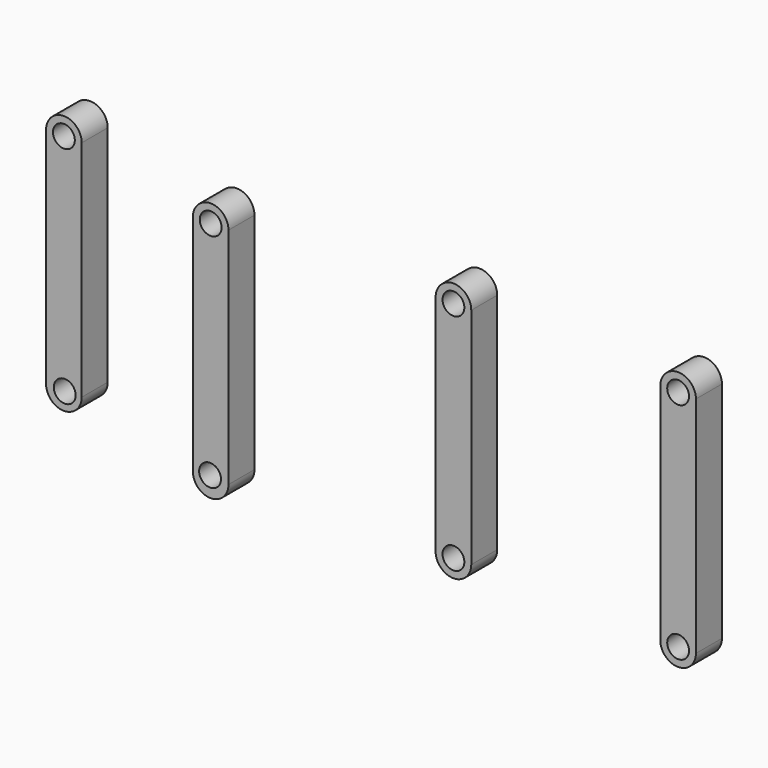
from build123d import *

# Parameters (mm, degrees)
F2_DEPTH     = 5
F3_DEPTH     = 5
F4_DEPTH     = 5
F5_D         = 3.36
F5_2_D       = 3.36
F5_3_D       = 3.36
F5_4_D       = 3.36
F5_ON_F1_D   = 3.36
F5_ON_F1_2_D = 3.36


with BuildPart() as f2:
    # F0 (on Front) → F2 (new body)
    with BuildSketch(Plane.XZ):
        with BuildLine():
            ThreePointArc((-24.0298556164, 6.1353398487), (-26.7723915167, 8.877875749), (-29.514927417, 6.1353398487))
            Line((-29.514927417, 6.1353398487), (-24.0298556164, 6.1353398487))
        make_face()
        with BuildLine():
            Line((-24.0298556164, 6.1353398487), (-29.514927417, 6.1353398487))
            ThreePointArc((-29.514927417, 6.1353398487), (-26.7723915167, 3.3928039484), (-24.0298556164, 6.1353398487))
        make_face()
        with BuildLine():
            ThreePointArc((-24.0298556164, 6.1353398487), (-26.7723915167, 3.3928039484), (-29.514927417, 6.1353398487))
            Line((-29.514927417, 6.1353398487), (-29.514927417, -28.3422730863))
            ThreePointArc((-29.514927417, -28.3422730863), (-26.7723915167, -25.599737186), (-24.0298556164, -28.3422730863))
            Line((-24.0298556164, -28.3422730863), (-24.0298556164, 6.1353398487))
        make_face()
        with BuildLine():
            ThreePointArc((-24.0298556164, -28.3422730863), (-26.7723915167, -25.599737186), (-29.514927417, -28.3422730863))
            Line((-29.514927417, -28.3422730863), (-24.0298556164, -28.3422730863))
        make_face()
        with BuildLine():
            Line((-24.0298556164, -28.3422730863), (-29.514927417, -28.3422730863))
            ThreePointArc((-29.514927417, -28.3422730863), (-26.7723915167, -31.0848089866), (-24.0298556164, -28.3422730863))
        make_face()
    extrude(amount=F2_DEPTH)

    # F5 (through all)
    with Locations(Plane(origin=(0, 0, 0), x_dir=(1, 0, 0), z_dir=(0, 1, 0))):
        with Locations((45.1865680516, -6.6577275284), (45.1865680516, 27.8198854066), (10.5999996886, 27.0422715694), (10.5999996886, -7.4353413656), (-26.7723915167, -6.1353398487), (-49.3671749718, -10.6204142794)):
            Hole(F5_D / 2)

    # F5 on F1 (through all)
    with Locations(Plane(origin=(0, 0, 0), x_dir=(1, 0, 0), z_dir=(0, 1, 0))):
        with Locations((-26.8647950143, 27.9999990016), (-49.2416396737, 23.8999929279)):
            Hole(F5_ON_F1_D / 2)


with BuildPart() as f3:
    # F0 (on Front) → F3 (new body)
    with BuildSketch(Plane.XZ):
        with BuildLine():
            ThreePointArc((7.8574637882, -27.0422715694), (10.5999996886, -29.7848074697), (13.3425355889, -27.0422715694))
            ThreePointArc((13.3425355889, -27.0422715694), (10.5999996886, -24.299735669), (7.8574637882, -27.0422715694))
        make_face()
        with BuildLine():
            ThreePointArc((7.8574637882, 7.4353413656), (10.5999996886, 4.6928054653), (13.3425355889, 7.4353413656))
            ThreePointArc((13.3425355889, 7.4353413656), (10.5999996886, 10.177877266), (7.8574637882, 7.4353413656))
        make_face()
        with BuildLine():
            ThreePointArc((7.8574637882, -27.0422715694), (10.5999996886, -24.299735669), (13.3425355889, -27.0422715694))
            Line((13.3425355889, -27.0422715694), (13.3425355889, 7.4353413656))
            ThreePointArc((13.3425355889, 7.4353413656), (10.5999996886, 4.6928054653), (7.8574637882, 7.4353413656))
            Line((7.8574637882, 7.4353413656), (7.8574637882, -27.0422715694))
        make_face()
    extrude(amount=F3_DEPTH)

    # F5#2 (through all)
    with Locations(Plane(origin=(0, 0, 0), x_dir=(1, 0, 0), z_dir=(0, 1, 0))):
        with Locations((45.1865680516, -6.6577275284), (45.1865680516, 27.8198854066), (10.5999996886, 27.0422715694), (10.5999996886, -7.4353413656), (-26.7723915167, -6.1353398487), (-49.3671749718, -10.6204142794)):
            Hole(F5_2_D / 2)


with BuildPart() as f4:
    # F0 (on Front) → F4 (new body)
    with BuildSketch(Plane.XZ):
        with BuildLine():
            ThreePointArc((-52.1097108722, -23.8571986556), (-49.3671749718, -21.1146627553), (-46.6246390715, -23.8571986556))
            Line((-46.6246390715, -23.8571986556), (-46.6246390715, 10.6204142794))
            ThreePointArc((-46.6246390715, 10.6204142794), (-49.3671749718, 7.8778783791), (-52.1097108722, 10.6204142794))
            Line((-52.1097108722, 10.6204142794), (-52.1097108722, -23.8571986556))
        make_face()
        with BuildLine():
            ThreePointArc((-52.1097108722, -23.8571986556), (-49.3671749718, -26.5997345559), (-46.6246390715, -23.8571986556))
            ThreePointArc((-46.6246390715, -23.8571986556), (-49.3671749718, -21.1146627553), (-52.1097108722, -23.8571986556))
        make_face()
        with BuildLine():
            ThreePointArc((-52.1097108722, 10.6204142794), (-49.3671749718, 7.8778783791), (-46.6246390715, 10.6204142794))
            ThreePointArc((-46.6246390715, 10.6204142794), (-49.3671749718, 13.3629501797), (-52.1097108722, 10.6204142794))
        make_face()
    extrude(amount=F4_DEPTH)

    # F5#3 (through all)
    with Locations(Plane(origin=(0, 0, 0), x_dir=(1, 0, 0), z_dir=(0, 1, 0))):
        with Locations((45.1865680516, -6.6577275284), (45.1865680516, 27.8198854066), (10.5999996886, 27.0422715694), (10.5999996886, -7.4353413656), (-26.7723915167, -6.1353398487), (-49.3671749718, -10.6204142794)):
            Hole(F5_3_D / 2)

    # F5 on F1#2 (through all)
    with Locations(Plane(origin=(0, 0, 0), x_dir=(1, 0, 0), z_dir=(0, 1, 0))):
        with Locations((-26.8647950143, 27.9999990016), (-49.2416396737, 23.8999929279)):
            Hole(F5_ON_F1_2_D / 2)


with BuildPart() as f4b:
    # F0 (on Front) → F4, piece 2 (new body)
    with BuildSketch(Plane.XZ):
        with BuildLine():
            ThreePointArc((42.4440321513, -27.8198854066), (45.1865680516, -30.562421307), (47.9291039519, -27.8198854066))
            ThreePointArc((47.9291039519, -27.8198854066), (45.1865680516, -25.0773495063), (42.4440321513, -27.8198854066))
        make_face()
        with BuildLine():
            ThreePointArc((42.4440321513, 6.6577275284), (45.1865680516, 3.915191628), (47.9291039519, 6.6577275284))
            ThreePointArc((47.9291039519, 6.6577275284), (45.1865680516, 9.4002634287), (42.4440321513, 6.6577275284))
        make_face()
        with BuildLine():
            ThreePointArc((42.4440321513, -27.8198854066), (45.1865680516, -25.0773495063), (47.9291039519, -27.8198854066))
            Line((47.9291039519, -27.8198854066), (47.9291039519, 6.6577275284))
            ThreePointArc((47.9291039519, 6.6577275284), (45.1865680516, 3.915191628), (42.4440321513, 6.6577275284))
            Line((42.4440321513, 6.6577275284), (42.4440321513, -27.8198854066))
        make_face()
    extrude(amount=F4_DEPTH)

    # F5#4 (through all)
    with Locations(Plane(origin=(0, 0, 0), x_dir=(1, 0, 0), z_dir=(0, 1, 0))):
        with Locations((45.1865680516, -6.6577275284), (45.1865680516, 27.8198854066), (10.5999996886, 27.0422715694), (10.5999996886, -7.4353413656), (-26.7723915167, -6.1353398487), (-49.3671749718, -10.6204142794)):
            Hole(F5_4_D / 2)


solid = Compound([f2.part, f3.part, f4.part, f4b.part])
